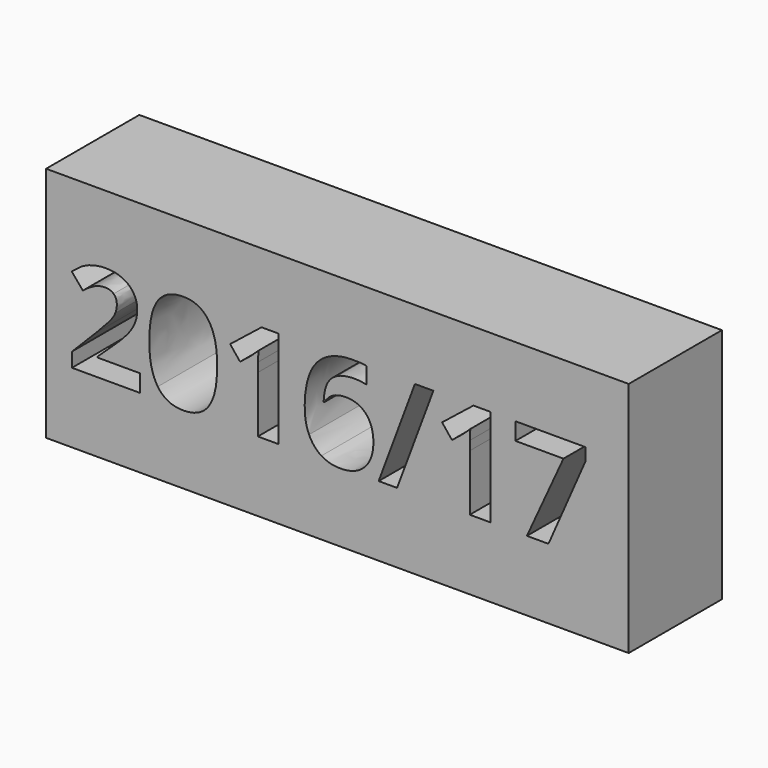
from build123d import *

# Parameters (mm, degrees)
F0_W     = 250
F0_H     = 101.666841656
F1_DEPTH = 50


with BuildPart() as f1:
    # F0 (on Front) → F1 (new body)
    with BuildSketch(Plane.XZ):
        with Locations((5.5693238974, 4.9150865525)):
            Rectangle(F0_W, F0_H)
        with BuildLine():
            Line((-79.1357593007, -8.4097307281), (-79.1357593007, -15.8393876627))
            Line((-79.1357593007, -15.8393876627), (-108.3243500131, -15.8393876627))
            Line((-108.3243500131, -15.8393876627), (-108.3243500131, -9.6982690156))
            Line((-108.3243500131, -9.6982690156), (-97.8424108938, 0.8933329367))
            add(Edge.make_bspline(
                [(-97.8424108938, 0.8933329367), (-93.181740492, 5.6636661714), (-91.7561236632, 7.5050879086)],
                knots=[0, 0, 0, 1, 1, 1], degree=2))
            add(Edge.make_bspline(
                [(-91.7561236632, 7.5050879086), (-90.3305068344, 9.3465096458), (-89.6999455448, 10.9183435852)],
                knots=[0, 0, 0, 1, 1, 1], degree=2))
            add(Edge.make_bspline(
                [(-89.6999455448, 10.9183435852), (-89.0693842551, 12.4901775246), (-89.0693842551, 14.1716742971)],
                knots=[0, 0, 0, 1, 1, 1], degree=2))
            add(Edge.make_bspline(
                [(-89.0693842551, 14.1716742971), (-89.0693842551, 16.6847808863), (-90.4584468062, 17.9139184726)],
                knots=[0, 0, 0, 1, 1, 1], degree=2))
            add(Edge.make_bspline(
                [(-90.4584468062, 17.9139184726), (-91.8475093573, 19.143056059), (-94.1595674194, 19.143056059)],
                knots=[0, 0, 0, 1, 1, 1], degree=2))
            add(Edge.make_bspline(
                [(-94.1595674194, 19.143056059), (-96.5812883145, 19.143056059), (-98.8659306683, 18.0281505903)],
                knots=[0, 0, 0, 1, 1, 1], degree=2))
            add(Edge.make_bspline(
                [(-98.8659306683, 18.0281505903), (-101.1505730221, 16.9132451216), (-103.6362639031, 14.8570670032)],
                knots=[0, 0, 0, 1, 1, 1], degree=2))
            Line((-103.6362639031, 14.8570670032), (-108.4340128461, 20.5412571795))
            add(Edge.make_bspline(
                [(-108.4340128461, 20.5412571795), (-105.3543149531, 23.1731651711), (-103.3255525429, 24.2560856468)],
                knots=[0, 0, 0, 1, 1, 1], degree=2))
            add(Edge.make_bspline(
                [(-103.3255525429, 24.2560856468), (-101.2967901327, 25.3390061225), (-98.8979156612, 25.9238745651)],
                knots=[0, 0, 0, 1, 1, 1], degree=2))
            add(Edge.make_bspline(
                [(-98.8979156612, 25.9238745651), (-96.4990411897, 26.5087430077), (-93.5290061298, 26.5087430077)],
                knots=[0, 0, 0, 1, 1, 1], degree=2))
            add(Edge.make_bspline(
                [(-93.5290061298, 26.5087430077), (-89.61769842, 26.5087430077), (-86.6202476518, 25.0831261789)],
                knots=[0, 0, 0, 1, 1, 1], degree=2))
            add(Edge.make_bspline(
                [(-86.6202476518, 25.0831261789), (-83.6227968836, 23.6575093501), (-81.9641465347, 21.0850020597)],
                knots=[0, 0, 0, 1, 1, 1], degree=2))
            add(Edge.make_bspline(
                [(-81.9641465347, 21.0850020597), (-80.3054961859, 18.5124947693), (-80.3054961859, 15.204332641)],
                knots=[0, 0, 0, 1, 1, 1], degree=2))
            add(Edge.make_bspline(
                [(-80.3054961859, 15.204332641), (-80.3054961859, 12.3165447058), (-81.3198773909, 9.7897302624)],
                knots=[0, 0, 0, 1, 1, 1], degree=2))
            add(Edge.make_bspline(
                [(-81.3198773909, 9.7897302624), (-82.334258596, 7.2629158191), (-84.4635452698, 4.608161404)],
                knots=[0, 0, 0, 1, 1, 1], degree=2))
            add(Edge.make_bspline(
                [(-84.4635452698, 4.608161404), (-86.5928319436, 1.9534069888), (-91.9571721903, -2.9631433566)],
                knots=[0, 0, 0, 1, 1, 1], degree=2))
            Line((-91.9571721903, -2.9631433566), (-97.3306510065, -8.0167722432))
            Line((-97.3306510065, -8.0167722432), (-97.3306510065, -8.4097307281))
            Line((-97.3306510065, -8.4097307281), (-79.1357593007, -8.4097307281))
        make_face(mode=Mode.SUBTRACT)
        with BuildLine():
            add(Edge.make_bspline(
                [(-49.6775807906, 21.0895713444), (-45.9810294621, 15.6064296953), (-45.9810294621, 5.0331048818)],
                knots=[0, 0, 0, 1, 1, 1], degree=2))
            add(Edge.make_bspline(
                [(-45.9810294621, 5.0331048818), (-45.9810294621, -5.8966241389), (-49.5633486729, -11.1558708374)],
                knots=[0, 0, 0, 1, 1, 1], degree=2))
            add(Edge.make_bspline(
                [(-49.5633486729, -11.1558708374), (-53.1456678837, -16.4151175359), (-60.6027405265, -16.4151175359)],
                knots=[0, 0, 0, 1, 1, 1], degree=2))
            add(Edge.make_bspline(
                [(-60.6027405265, -16.4151175359), (-67.831348934, -16.4151175359), (-71.5004845542, -10.9868073032)],
                knots=[0, 0, 0, 1, 1, 1], degree=2))
            add(Edge.make_bspline(
                [(-71.5004845542, -10.9868073032), (-75.1696201745, -5.5584970705), (-75.1696201745, 5.0331048818)],
                knots=[0, 0, 0, 1, 1, 1], degree=2))
            add(Edge.make_bspline(
                [(-75.1696201745, 5.0331048818), (-75.1696201745, 16.0907738743), (-71.5964395331, 21.3317434339)],
                knots=[0, 0, 0, 1, 1, 1], degree=2))
            add(Edge.make_bspline(
                [(-71.5964395331, 21.3317434339), (-68.0232588917, 26.5727129936), (-60.6027405265, 26.5727129936)],
                knots=[0, 0, 0, 1, 1, 1], degree=2))
            add(Edge.make_bspline(
                [(-60.6027405265, 26.5727129936), (-53.374132119, 26.5727129936), (-49.6775807906, 21.0895713444)],
                knots=[0, 0, 0, 1, 1, 1], degree=2))
        make_face(mode=Mode.SUBTRACT)
        with BuildLine():
            Line((-19.7350581014, 25.9147359957), (-19.7350581014, -15.8393876627))
            Line((-19.7350581014, -15.8393876627), (-28.5629161566, -15.8393876627))
            Line((-28.5629161566, -15.8393876627), (-28.5629161566, 8.3229898713))
            Line((-28.5629161566, 8.3229898713), (-28.4715304624, 12.2891289975))
            Line((-28.4715304624, 12.2891289975), (-28.3344519212, 16.6299494698))
            add(Edge.make_bspline(
                [(-28.3344519212, 16.6299494698), (-30.5277085808, 14.4366928101), (-31.3867341059, 13.751300104)],
                knots=[0, 0, 0, 1, 1, 1], degree=2))
            Line((-31.3867341059, 13.751300104), (-36.1844830489, 9.8948238107))
            Line((-36.1844830489, 9.8948238107), (-40.4430563964, 15.204332641))
            Line((-40.4430563964, 15.204332641), (-26.9910822171, 25.9147359957))
            Line((-26.9910822171, 25.9147359957), (-19.7350581014, 25.9147359957))
        make_face(mode=Mode.SUBTRACT)
        with BuildLine():
            add(Edge.make_bspline(
                [(-6.5892259975, -8.0167722432), (-8.458063443, -3.9044160064), (-8.458063443, 1.8985755723)],
                knots=[0, 0, 0, 1, 1, 1], degree=2))
            add(Edge.make_bspline(
                [(-8.458063443, 1.8985755723), (-8.458063443, 14.2904756995), (-3.2170938833, 20.3447779371)],
                knots=[0, 0, 0, 1, 1, 1], degree=2))
            add(Edge.make_bspline(
                [(-3.2170938833, 20.3447779371), (2.0238756764, 26.3990801747), (12.4783990874, 26.3990801747)],
                knots=[0, 0, 0, 1, 1, 1], degree=2))
            add(Edge.make_bspline(
                [(12.4783990874, 26.3990801747), (16.0424411594, 26.3990801747), (18.0712035696, 25.9695674122)],
                knots=[0, 0, 0, 1, 1, 1], degree=2))
            Line((18.0712035696, 25.9695674122), (18.0712035696, 18.9145918236))
            add(Edge.make_bspline(
                [(18.0712035696, 18.9145918236), (15.5306812721, 19.4903216967), (13.0449903912, 19.4903216967)],
                knots=[0, 0, 0, 1, 1, 1], degree=2))
            add(Edge.make_bspline(
                [(13.0449903912, 19.4903216967), (8.5031213918, 19.4903216967), (5.6336105954, 18.1195362845)],
                knots=[0, 0, 0, 1, 1, 1], degree=2))
            add(Edge.make_bspline(
                [(5.6336105954, 18.1195362845), (2.764099799, 16.7487508722), (1.3384829702, 14.0620114641)],
                knots=[0, 0, 0, 1, 1, 1], degree=2))
            add(Edge.make_bspline(
                [(1.3384829702, 14.0620114641), (-0.0871338586, 11.375272056), (-0.3430138022, 6.4404445717)],
                knots=[0, 0, 0, 1, 1, 1], degree=2))
            Line((-0.3430138022, 6.4404445717), (0.0225289744, 6.4404445717))
            add(Edge.make_bspline(
                [(0.0225289744, 6.4404445717), (2.8554854932, 11.2930249312), (9.078851265, 11.2930249312)],
                knots=[0, 0, 0, 1, 1, 1], degree=2))
            add(Edge.make_bspline(
                [(9.078851265, 11.2930249312), (14.6716557471, 11.2930249312), (17.8427393342, 7.7792449911)],
                knots=[0, 0, 0, 1, 1, 1], degree=2))
            add(Edge.make_bspline(
                [(17.8427393342, 7.7792449911), (21.0138229213, 4.2654650509), (21.0138229213, -1.9304850127)],
                knots=[0, 0, 0, 1, 1, 1], degree=2))
            add(Edge.make_bspline(
                [(21.0138229213, -1.9304850127), (21.0138229213, -8.6107792552), (17.2441630375, -12.5129483955)],
                knots=[0, 0, 0, 1, 1, 1], degree=2))
            add(Edge.make_bspline(
                [(17.2441630375, -12.5129483955), (13.4745031537, -16.4151175359), (6.7942089111, -16.4151175359)],
                knots=[0, 0, 0, 1, 1, 1], degree=2))
            add(Edge.make_bspline(
                [(6.7942089111, -16.4151175359), (2.170092787, -16.4151175359), (-1.2751478826, -14.272123008)],
                knots=[0, 0, 0, 1, 1, 1], degree=2))
            add(Edge.make_bspline(
                [(-1.2751478826, -14.272123008), (-4.7203885521, -12.1291284801), (-6.5892259975, -8.0167722432)],
                knots=[0, 0, 0, 1, 1, 1], degree=2))
        make_face(mode=Mode.SUBTRACT)
        Polygon((38.8340332811, 25.9147359957), (46.7480343947, 25.9147359957), (31.1759121111, -15.8393876627), (23.2710495669, -15.8393876627), align=None, mode=Mode.SUBTRACT)
        with BuildLine():
            Line((71.1937075806, 25.9147359957), (71.1937075806, -15.8393876627))
            Line((71.1937075806, -15.8393876627), (62.3658495254, -15.8393876627))
            Line((62.3658495254, -15.8393876627), (62.3658495254, 8.3229898713))
            Line((62.3658495254, 8.3229898713), (62.4572352196, 12.2891289975))
            Line((62.4572352196, 12.2891289975), (62.5943137608, 16.6299494698))
            add(Edge.make_bspline(
                [(62.5943137608, 16.6299494698), (60.4010571011, 14.4366928101), (59.5420315761, 13.751300104)],
                knots=[0, 0, 0, 1, 1, 1], degree=2))
            Line((59.5420315761, 13.751300104), (54.7442826331, 9.8948238107))
            Line((54.7442826331, 9.8948238107), (50.4857092856, 15.204332641))
            Line((50.4857092856, 15.204332641), (63.9376834649, 25.9147359957))
            Line((63.9376834649, 25.9147359957), (71.1937075806, 25.9147359957))
        make_face(mode=Mode.SUBTRACT)
        Polygon((96.1511406537, -15.8393876627), (86.893769836, -15.8393876627), (102.5755549526, 18.4302476446), (81.98635806, 18.4302476446), (81.98635806, 25.8599045792), (111.9425886033, 25.8599045792), (111.9425886033, 20.3127929441), align=None, mode=Mode.SUBTRACT)
    extrude(amount=F1_DEPTH)


solid = f1.part
